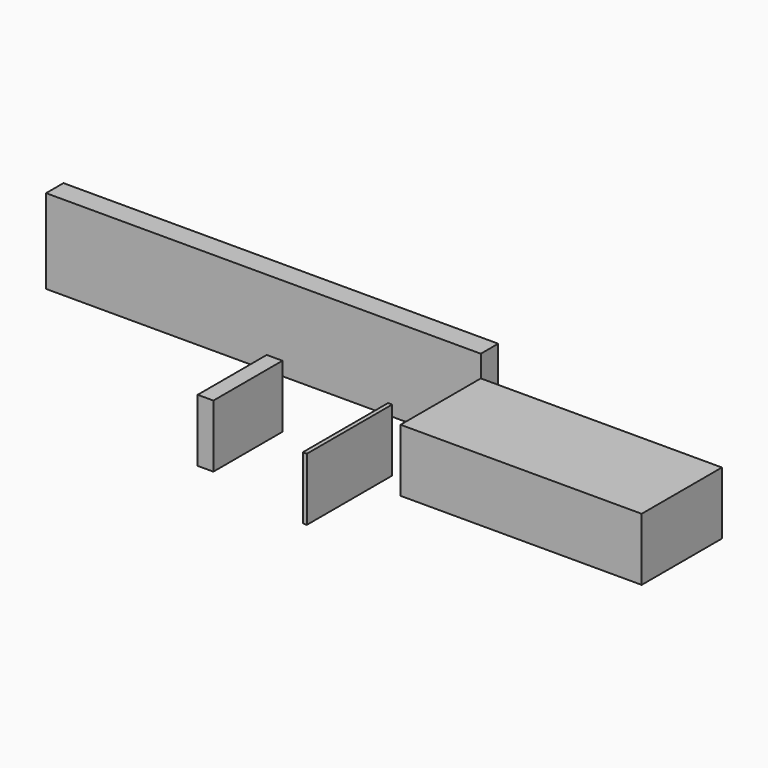
from build123d import *

# Parameters (mm, degrees)
F0_W     = 2000
F0_H     = 100
F1_DEPTH = 100
F0_W_2   = 1109.2703342438
F0_H_2   = 461.539208889
F2_DEPTH = 288
F0_W_3   = 72.1554160118
F0_H_3   = 396.9436585903
F0_W_4   = 18.7770649791
F0_H_4   = 490.4179871082


with BuildPart() as f1:
    # F0 (on Top) → F1 (new body)
    with BuildSketch(Plane.XY):
        with Locations((-1000, 50)):
            Rectangle(F0_W, F0_H)
    extrude(amount=F1_DEPTH)

    # F0 (on Top) → F2 (join)
    with BuildSketch(Plane.XY):
        with Locations((554.6351671219, -230.7696044445)):
            Rectangle(F0_W_2, F0_H_2)
        with Locations((-1000, 50)):
            Rectangle(F0_W, F0_H)
    extrude(amount=-F2_DEPTH)


with BuildPart() as f2:
    # F0 (on Top) → F2, piece 2 (new body)
    with BuildSketch(Plane.XY):
        with Locations((-678.5522401333, -536.3117009401)):
            Rectangle(F0_W_3, F0_H_3)
    extrude(amount=-F2_DEPTH)


with BuildPart() as f2b:
    # F0 (on Top) → F2, piece 3 (new body)
    with BuildSketch(Plane.XY):
        with Locations((-131.1154998839, -602.9954999685)):
            Rectangle(F0_W_4, F0_H_4)
    extrude(amount=-F2_DEPTH)


solid = Compound([f1.part, f2.part, f2b.part])
